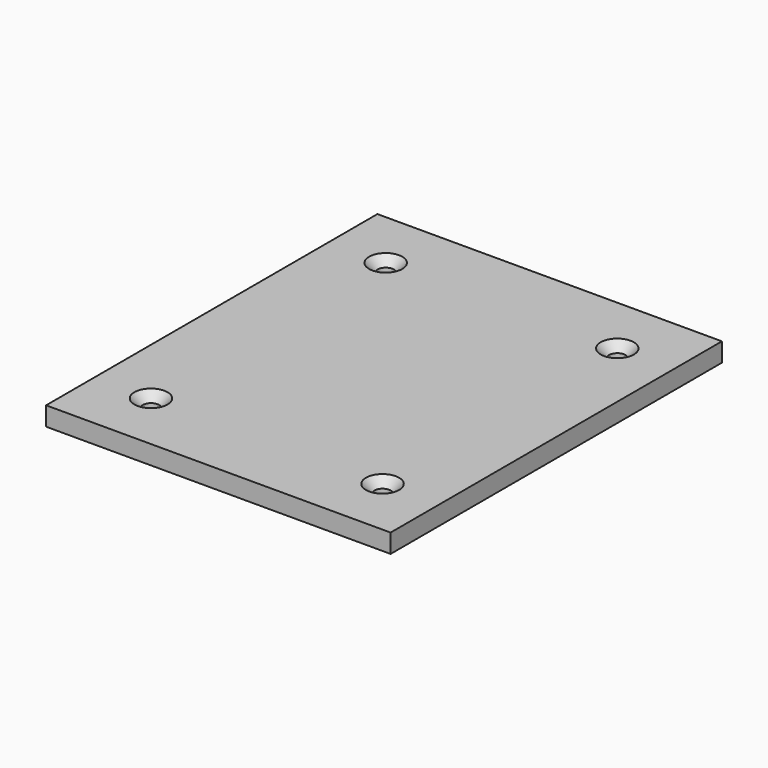
from build123d import *

# Parameters (mm, degrees)
F0_W           = 92.964
F0_H           = 111.76
F1_DEPTH       = 5.08
F3_D           = 4.4
F3_DEPTH       = 37.1856
F3_CSINK_D     = 8.96
F3_CSINK_ANGLE = 90
F3_TIP         = 1.3218933619


with BuildPart() as f1:
    # F0 (on Top) → F1 (new body)
    with BuildSketch(Plane.XY):
        Rectangle(F0_W, F0_H)
    extrude(amount=F1_DEPTH)

    # F3
    with Locations(Plane.XY.offset(5.08)):
        with Locations((-31.20898, 39.59098), (-31.20898, -39.58844), (31.27502, -39.58844), (31.27502, 39.59098)):
            CounterSinkHole(F3_D / 2, F3_CSINK_D / 2, depth=F3_DEPTH, counter_sink_angle=F3_CSINK_ANGLE)
            with Locations((0, 0, -(F3_DEPTH + F3_TIP / 2))):  # 118° drill point
                Cone(0, F3_D / 2, F3_TIP, mode=Mode.SUBTRACT)


solid = f1.part
